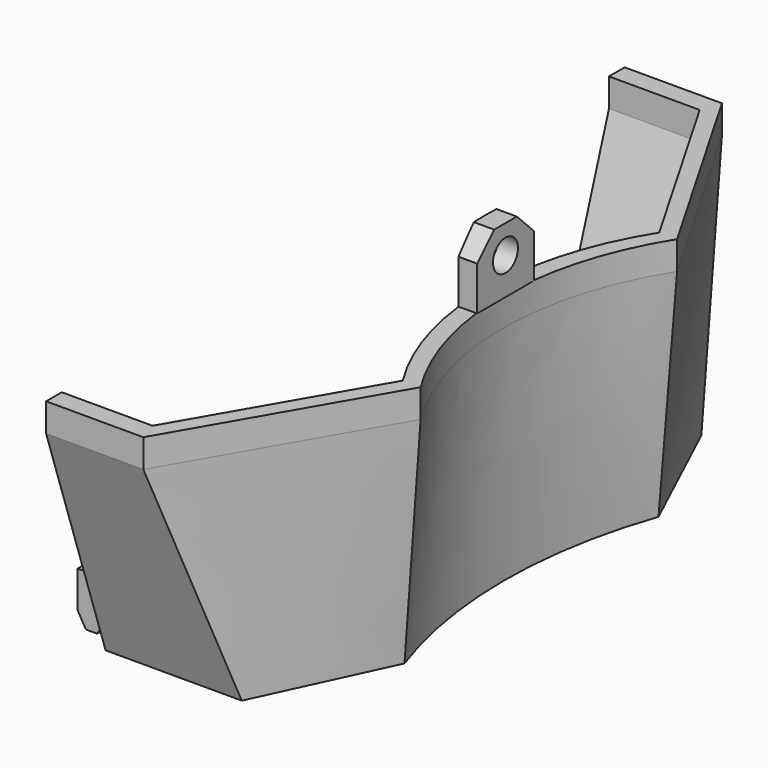
from build123d import *

# Parameters (mm, degrees)
EXTRUDE136140_DEPTH = 5
BOX017_W            = 41
BOX017_H            = 140
BOX017_DEPTH        = 60
SKETCH348_R         = 1.85
EXTRUDE136129_DEPTH = 25
EXTRUDE136133_DEPTH = 6
EXTRUDE136132_DEPTH = 6
SKETCH339_R         = 1.75
EXTRUDE136134_DEPTH = 14
EXTRUDE136135_DEPTH = 5
SKETCH349_R         = 2.85
EXTRUDE136130_DEPTH = 25
SKETCH353_R         = 2.75
EXTRUDE136137_DEPTH = 4
EXTRUDE136131_DEPTH = 116
EXTRUDE136138_DEPTH = 20.5
EXTRUDE136128_DEPTH = 8
EXTRUDE136127_DEPTH = 8
ARRAY032_COUNT      = 2
EXTRUDE136139_DEPTH = 5


with BuildPart() as extrude136140:
    # Sketch355 → Extrude136140 (new body)
    with BuildSketch(Plane.XZ):
        Polygon((0, 0), (-2, 0), (-3.443376, 2.5), (-3.443376, 9), (5.556624, 9), (5.556624, 2.5), (1.443376, 2.5), align=None)
    extrude(amount=-EXTRUDE136140_DEPTH)


with BuildPart() as extrude136140_1:
    # Extrude136140 placement: moved
    add(extrude136140.part.moved(Location((48, 42.5, -44))))


with BuildPart() as cube014:
    # Box017 → Box017 (new body)
    with BuildSketch(Plane(origin=(52, -70, -46), x_dir=(1, 0, 0), z_dir=(0, 0, 1))):
        with Locations((20.5, 70)):
            Rectangle(BOX017_W, BOX017_H)
    extrude(amount=BOX017_DEPTH)


with BuildPart() as extrude136129:
    # Sketch348 → Extrude136129 (new body)
    with BuildSketch(Plane.XY):
        with Locations((-40, 60)):
            Circle(SKETCH348_R)
        with Locations((40, 60)):
            Circle(SKETCH348_R)
        with Locations((40, -60)):
            Circle(SKETCH348_R)
        with Locations((-40, -60)):
            Circle(SKETCH348_R)
    extrude(amount=-EXTRUDE136129_DEPTH)


with BuildPart() as extrude136133:
    # Sketch351 → Extrude136133 (new body)
    with BuildSketch(Plane.XZ):
        Polygon((-4.05083, 4), (-1.25, 0), (1.25, 0), (4.05083, 4), align=None)
    extrude(amount=-EXTRUDE136133_DEPTH)


with BuildPart() as extrude136133_1:
    # Extrude136133 placement: moved
    add(extrude136133.part.moved(Location((0, 42, 0))))


with BuildPart() as fusion034004041077001011012:
    # Sketch351 → Extrude136132 (new body)
    with BuildSketch(Plane.XZ):
        Polygon((-4.05083, 4), (-1.25, 0), (1.25, 0), (4.05083, 4), align=None)
    extrude(amount=-EXTRUDE136132_DEPTH)


with BuildPart() as fusion034004041077001011012_1:
    # Extrude136132 placement: moved
    add(fusion034004041077001011012.part.moved(Location((0, -48, 0))))

    # Fusion034004041077001011012: union Extrude136133
    add(extrude136133_1.part)


with BuildPart() as fusion034004041077001011012_2:
    # Fusion034004041077001011012 placement: moved
    add(fusion034004041077001011012_1.part.moved(Location((47, 0, -44))))


with BuildPart() as extrude136134:
    # Sketch339 → Extrude136134 (new body)
    with BuildSketch(Plane.XY.offset(-32)):
        with Locations((-37.5, 46.5)):
            Circle(SKETCH339_R)
        with Locations((37.5, 46.5)):
            Circle(SKETCH339_R)
        with Locations((37.5, -46.5)):
            Circle(SKETCH339_R)
        with Locations((-37.5, -46.5)):
            Circle(SKETCH339_R)
    extrude(amount=-EXTRUDE136134_DEPTH)


with BuildPart() as extrude136135:
    # Sketch340 → Extrude136135 (new body)
    with BuildSketch(Plane.XY.offset(-39)):
        Polygon((39.125, -49.314583), (40.75, -46.5), (39.125, -43.685417), (35.875, -43.685417), (34.25, -46.5), (35.875, -49.314583), align=None)
        Polygon((39.125, 43.685417), (40.75, 46.5), (39.125, 49.314583), (35.875, 49.314583), (34.25, 46.5), (35.875, 43.685417), align=None)
        Polygon((-34.25, 46.5), (-35.875, 49.314583), (-39.125, 49.314583), (-40.75, 46.5), (-39.125, 43.685417), (-35.875, 43.685417), align=None)
        Polygon((-40.75, -46.5), (-39.125, -49.314583), (-35.875, -49.314583), (-34.25, -46.5), (-35.875, -43.685417), (-39.125, -43.685417), align=None)
    extrude(amount=EXTRUDE136135_DEPTH)


with BuildPart() as fusion034004041077001011011:
    # Sketch349 → Extrude136130 (new body)
    with BuildSketch(Plane.XY.offset(-8)):
        with Locations((-40, -60)):
            Circle(SKETCH349_R)
        with Locations((40, -60)):
            Circle(SKETCH349_R)
        with Locations((40, 60)):
            Circle(SKETCH349_R)
        with Locations((-40, 60)):
            Circle(SKETCH349_R)
    extrude(amount=-EXTRUDE136130_DEPTH)

    # Fusion034004041077001011011: union Extrude136129, Fusion034004041077001011012, Extrude136134, Extrude136135
    add(extrude136129.part)
    add(fusion034004041077001011012_2.part)
    add(extrude136134.part)
    add(extrude136135.part)


with BuildPart() as loft005:
    # Sketch344 → Loft005 section 0
    with BuildSketch(Plane.XY.offset(-42)):
        with BuildLine():
            Line((83.953856, 28), (74.656255, 47.938771))
            Line((-74.656255, 47.938771), (74.656255, 47.938771))
            Line((-74.656255, 47.938771), (-83.953856, 28))
            ThreePointArc((-83.953856, -28), (-79.195376, 0), (-83.953856, 28))
            Line((-83.953856, -28), (-74.656255, -47.938771))
            Line((-74.656255, -47.938771), (74.656255, -47.938771))
            Line((74.656255, -47.938771), (83.953856, -28))
            ThreePointArc((83.953856, 28), (79.195376, 0), (83.953856, -28))
        make_face()
    # Sketch345 → Loft005 section 1
    with BuildSketch(Plane.XY.offset(-5)):
        with BuildLine():
            Line((86.49793, 28.2685), (67.99793, 60.31144))
            Line((-67.99793, 60.31144), (67.99793, 60.31144))
            Line((-67.99793, 60.31144), (-86.49793, 28.2685))
            ThreePointArc((-86.49793, -28.2685), (-78.355592, 0), (-86.49793, 28.2685))
            Line((-86.49793, -28.2685), (-67.99793, -60.31144))
            Line((-67.99793, -60.31144), (67.99793, -60.31144))
            Line((67.99793, -60.31144), (86.49793, -28.2685))
            ThreePointArc((86.49793, 28.2685), (78.355592, 0), (86.49793, -28.2685))
        make_face()
    # Sketch343 → Loft005 section 2
    with BuildSketch(Plane.XY.offset(12)):
        with BuildLine():
            Line((86.49793, 28.2685), (67.99793, 60.31144))
            Line((-67.99793, 60.31144), (67.99793, 60.31144))
            Line((-67.99793, 60.31144), (-86.49793, 28.2685))
            ThreePointArc((-86.49793, -28.2685), (-78.355592, 0), (-86.49793, 28.2685))
            Line((-86.49793, -28.2685), (-67.99793, -60.31144))
            Line((-67.99793, -60.31144), (67.99793, -60.31144))
            Line((67.99793, -60.31144), (86.49793, -28.2685))
            ThreePointArc((86.49793, 28.2685), (78.355592, 0), (86.49793, -28.2685))
        make_face()
    loft(ruled=True)


with BuildPart() as extrude136137:
    # Sketch353 → Extrude136137 (new body)
    with BuildSketch(Plane.YZ):
        Polygon((-6.25, 0), (-6.25, 7.75), (-2.5, 11.5), (2.5, 11.5), (6.25, 7.75), (6.25, 0), align=None)
        with Locations((0, 6.5)):
            Circle(SKETCH353_R, mode=Mode.SUBTRACT)
    extrude(amount=EXTRUDE136137_DEPTH)


with BuildPart() as extrude136137_1:
    # Extrude136137 placement: moved
    add(extrude136137.part.moved(Location((78, 0, 0))))


with BuildPart() as cut009010006006006005025006:
    # Sketch342 → Loft006 section 0
    with BuildSketch(Plane.XY.offset(-44)):
        with BuildLine():
            Line((86.585218, 28), (76.019762, 50.657695))
            Line((-76.019762, 50.657695), (76.019762, 50.657695))
            Line((-76.019762, 50.657695), (-86.585218, 28))
            ThreePointArc((-86.585218, -28), (-81.826738, 0), (-86.585218, 28))
            Line((-86.585218, -28), (-76.019762, -50.657695))
            Line((-76.019762, -50.657695), (76.019762, -50.657695))
            Line((76.019762, -50.657695), (86.585218, -28))
            ThreePointArc((86.585218, 28), (81.826738, 0), (86.585218, -28))
        make_face()
    # Sketch346 → Loft006 section 1
    with BuildSketch(Plane.XY.offset(-5)):
        with BuildLine():
            Line((89.648714, 28.2685), (69.148714, 63.775542))
            Line((-69.148714, 63.775542), (69.148714, 63.775542))
            Line((-69.148714, 63.775542), (-89.648714, 28.2685))
            ThreePointArc((-89.648714, -28.2685), (-81.506376, 0), (-89.648714, 28.2685))
            Line((-89.648714, -28.2685), (-69.148714, -63.775542))
            Line((-69.148714, -63.775542), (69.148714, -63.775542))
            Line((69.148714, -63.775542), (89.648714, -28.2685))
            ThreePointArc((89.648714, 28.2685), (81.506376, 0), (89.648714, -28.2685))
        make_face()
    # Sketch341 → Loft006 section 2
    with BuildSketch(Plane.XY):
        with BuildLine():
            Line((89.648714, 28.2685), (69.148714, 63.775542))
            Line((-69.148714, 63.775542), (69.148714, 63.775542))
            Line((-69.148714, 63.775542), (-89.648714, 28.2685))
            ThreePointArc((-89.648714, -28.2685), (-81.506376, 0), (-89.648714, 28.2685))
            Line((-89.648714, -28.2685), (-69.148714, -63.775542))
            Line((-69.148714, -63.775542), (69.148714, -63.775542))
            Line((69.148714, -63.775542), (89.648714, -28.2685))
            ThreePointArc((89.648714, 28.2685), (81.506376, 0), (89.648714, -28.2685))
        make_face()
    loft(ruled=True)

    # Fusion034004041077001011013: union Extrude136137
    add(extrude136137_1.part)

    # Cut009010006006006005025006: cut Loft005
    add(loft005.part, mode=Mode.SUBTRACT)


with BuildPart() as extrude136131:
    # Sketch350 → Extrude136131 (new body)
    with BuildSketch(Plane.YZ):
        Polygon((-52.764154, 0), (-49.5, -7), (-42.5, -7), (-42.5, 0), align=None)
        Polygon((52.764154, 0), (49.5, -7), (42.5, -7), (42.5, 0), align=None)
        Polygon((-26, 0), (-23, 0), (-23, -7), (-30.041452, -7), align=None)
        Polygon((23, 0), (26, 0), (30.041452, -7), (23, -7), align=None)
    extrude(amount=EXTRUDE136131_DEPTH)


with BuildPart() as extrude136131_1:
    # Extrude136131 placement: moved
    add(extrude136131.part.moved(Location((-72.85, 0, -35))))


with BuildPart() as extrude136138:
    # Sketch354 → Extrude136138 (new body)
    with BuildSketch(Plane.YZ):
        Polygon((-52.764154, 0), (-49.5, -7), (-42.5, -7), (-42.5, 0), align=None)
        Polygon((52.764154, 0), (49.5, -7), (42.5, -7), (42.5, 0), align=None)
    extrude(amount=-EXTRUDE136138_DEPTH)


with BuildPart() as extrude136138_1:
    # Extrude136138 placement: moved
    add(extrude136138.part.moved(Location((72.75, 0, -35))))


with BuildPart() as extrude136128:
    # Sketch347 → Extrude136128 (new body)
    with BuildSketch(Plane.YZ):
        Polygon((0, 0), (0, -5), (7, -17.124356), (7, 0), align=None)
    extrude(amount=EXTRUDE136128_DEPTH)


with BuildPart() as extrude136128_1:
    # Extrude136128 placement: moved
    add(extrude136128.part.moved(Location((-44, -63, 0))))


with BuildPart() as common001:
    # Sketch347 → Extrude136127 (new body)
    with BuildSketch(Plane.YZ):
        Polygon((0, 0), (0, -5), (7, -17.124356), (7, 0), align=None)
    extrude(amount=EXTRUDE136127_DEPTH)


with BuildPart() as common001_1:
    # Extrude136127 placement: moved
    add(common001.part.moved(Location((36, -63, 0))))

    # Fusion034004041077001011010: union Extrude136128
    add(extrude136128_1.part)

    # Array032: Common001 ×2 about axis
    array032_axis = Axis((0, 0, 0), (0, 0, 1))


with BuildPart() as common001_2:
    add(common001_1.part)
    for i in range(1, ARRAY032_COUNT):
        add(common001_1.part.rotate(array032_axis, i * 360 / ARRAY032_COUNT))

    # Fusion034004041077001011014: union Cut009010006006006005025006, Extrude136131, Extrude136138
    add(cut009010006006006005025006.part)
    add(extrude136131_1.part)
    add(extrude136138_1.part)

    # Cut009010006006006005025007: cut Fusion034004041077001011011
    add(fusion034004041077001011011.part, mode=Mode.SUBTRACT)

    # Common001: intersect Cube014
    add(cube014.part, mode=Mode.INTERSECT)


with BuildPart() as batterycoverfusion44mm:
    # Sketch355 → Extrude136139 (new body)
    with BuildSketch(Plane.XZ):
        Polygon((0, 0), (-2, 0), (-3.443376, 2.5), (-3.443376, 9), (5.556624, 9), (5.556624, 2.5), (1.443376, 2.5), align=None)
    extrude(amount=EXTRUDE136139_DEPTH)


with BuildPart() as batterycoverfusion44mm_1:
    # Extrude136139 placement: moved
    add(batterycoverfusion44mm.part.moved(Location((48, -42.5, -44))))

    # Fusion034004041077001011015: union Extrude136140, Common001
    add(extrude136140_1.part)
    add(common001_2.part)


with BuildPart() as batterycoverfusion44mm_2:
    # Fusion034004041077001011015 placement: moved
    add(batterycoverfusion44mm_1.part.moved(Location((0, 0, -25.5))))


solid = batterycoverfusion44mm_2.part
